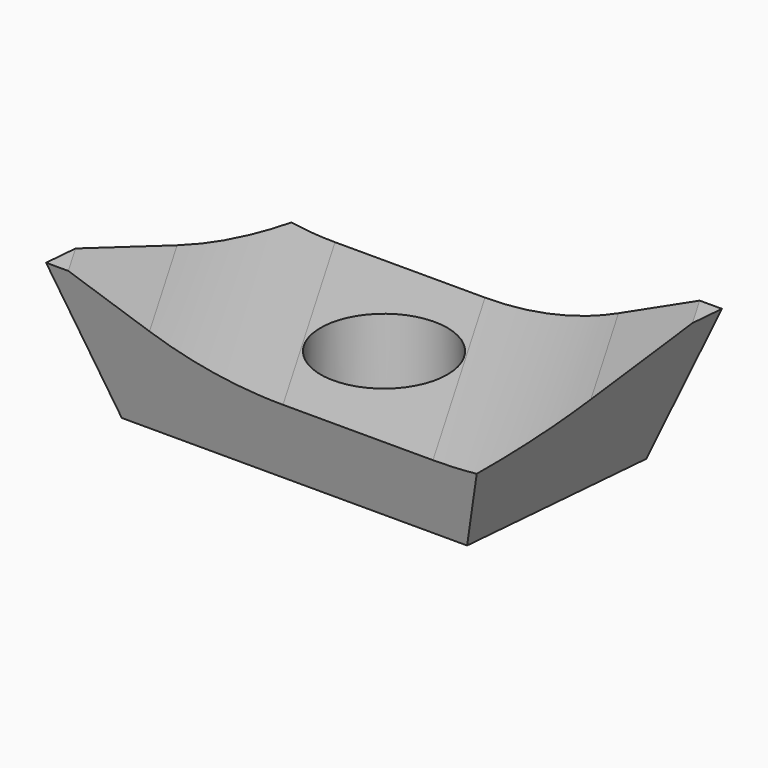
from build123d import *

# Parameters (mm, degrees)
F0_W      = 12
F0_H      = 7
F1_DEPTH  = 3.5
F3_DEPTH  = 7.001
F5_DEPTH  = 12.001
F12_DEPTH = 12.5
F13_R     = 1.65
F14_DEPTH = 2.0010001
F15_R     = 7


with BuildPart() as f1:
    # F0 (on Top) → F1 (new body)
    with BuildSketch(Plane.XY):
        with Locations((6, 3.5)):
            Rectangle(F0_W, F0_H)
    extrude(amount=F1_DEPTH)

    # F2 (on face) → F3 (cut, through all)
    with BuildSketch(Plane.XZ):
        Polygon((1.2738958199, 0), (0, 3.5), (0, 0), align=None)
        Polygon((12, 0), (12, 3.5), (10.7261041801, 0), align=None)
    extrude(amount=-F3_DEPTH, mode=Mode.SUBTRACT)

    # F4 (on Right) → F5 (cut, through all)
    with BuildSketch(Plane.YZ):
        Polygon((0.87264801, 0), (0, 3.5), (0, 0), align=None)
        Polygon((6.12735199, 0), (7, 0), (7, 3.5), align=None)
    extrude(amount=F5_DEPTH, mode=Mode.SUBTRACT)

    # F6 (on face) → F8 section 0
    with BuildSketch(Plane.XY.offset(3.5)):
        Polygon((0, 7), (0, 0), (0.6124206447, 7), align=None)
    # F7 (on face) → F8 section 1
    with BuildSketch(Plane(origin=(0, 0, 0), x_dir=(1, 0, 0), z_dir=(0, 0, -1))):
        Polygon((1.2738958199, -0.87264801), (1.2738958199, -6.12735199), (1.7336228484, -6.12735199), align=None)
    loft(mode=Mode.SUBTRACT)

    # F6 (on face) → F9 section 0
    with BuildSketch(Plane.XY.offset(3.5)):
        Polygon((12, 7), (11.3875793553, 0), (12, 0), align=None)
    # F7 (on face) → F9 section 1
    with BuildSketch(Plane(origin=(0, 0, 0), x_dir=(1, 0, 0), z_dir=(0, 0, -1))):
        Polygon((10.7261041801, -0.87264801), (10.2663771516, -0.87264801), (10.7261041801, -6.12735199), align=None)
    loft(mode=Mode.SUBTRACT)

    # F11 (on 3pt) → F12 (cut, symmetric)
    with BuildSketch(Plane(origin=(0, 0, 0), x_dir=(0.8637789009, 0.5038710255, 0), z_dir=(0.5038710255, -0.8637789009, 0))):
        Polygon((9.8363507794, 3.5), (0.5, 3.5), (3.7, 2), (6.9462219947, 2), (10.1924439894, 2), (13.3924439894, 3.5), align=None)
    extrude(amount=F12_DEPTH, both=True, mode=Mode.SUBTRACT)

    # F13 (on face) → F14 (cut, through all)
    with BuildSketch(Plane.XY.offset(2)):
        with Locations((6, 3.5)):
            Circle(F13_R)
    extrude(amount=-F14_DEPTH, mode=Mode.SUBTRACT)

    # F15
    f15_edges = [f1.edges().sort_by_distance(p)[0] for p in [
        (2.535148, 2.997181, 2),
        (9.464852, 4.002819, 2),
    ]]
    fillet(f15_edges, radius=F15_R)


solid = f1.part
